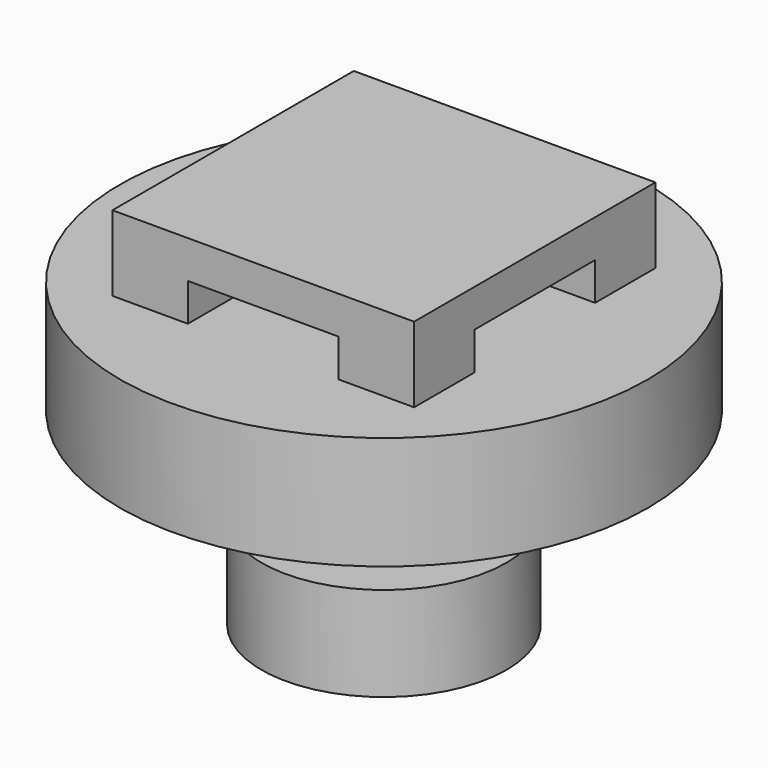
from build123d import *

# Parameters (mm, degrees)
F0_R      = 3.25
F1_DEPTH  = 2.5
F2_R      = 1.5
F3_DEPTH  = 2.5
F4_R      = 7
F4_R_2    = 1.5
F5_DEPTH  = 3
F6_R      = 1.5
F7_DEPTH  = 3
F8_W      = 2
F8_H      = 2
F9_DEPTH  = 2
F11_DEPTH = 1


with BuildPart() as f1:
    # F0 (on Top) → F1 (new body)
    with BuildSketch(Plane.XY):
        with Locations((-13.149204, -17.084545)):
            Circle(F0_R)
    extrude(amount=F1_DEPTH)

    # F2 (on face) → F3 (join)
    with BuildSketch(Plane.XY.offset(2.5)):
        with Locations((-13.149204, -17.084545)):
            Circle(F2_R)
    extrude(amount=F3_DEPTH)

    # F4 (on face) → F5 (join)
    with BuildSketch(Plane.XY.offset(5)):
        with Locations((-13.149204, -17.084545)):
            Circle(F4_R)
        with Locations((-13.149204, -17.084545)):
            Circle(F4_R_2, mode=Mode.SUBTRACT)
    extrude(amount=F5_DEPTH)

    # F6 (on face) → F7 (join)
    with BuildSketch(Plane.XY.offset(5)):
        with Locations((-13.149204, -17.084545)):
            Circle(F6_R)
    extrude(amount=F7_DEPTH)

    # F8 (on face) → F9 (join)
    with BuildSketch(Plane.XY.offset(8)):
        with Locations((-16.149204, -14.084545)):
            Rectangle(F8_W, F8_H)
        with Locations((-10.149204, -14.084545)):
            Rectangle(F8_W, F8_H)
        with Locations((-10.149204, -20.084545)):
            Rectangle(F8_W, F8_H)
        with Locations((-16.149204, -20.084545)):
            Rectangle(F8_W, F8_H)
    extrude(amount=F9_DEPTH)

    # F10 (on face) → F11 (join)
    with BuildSketch(Plane.XY.offset(10)):
        Polygon((-9.149204, -13.084545), (-15.149204, -13.084545), (-15.149204, -15.084545), (-17.149204, -15.084545), (-17.149204, -21.084545), (-9.149204, -21.084545), align=None)
    extrude(amount=-F11_DEPTH)


solid = f1.part
